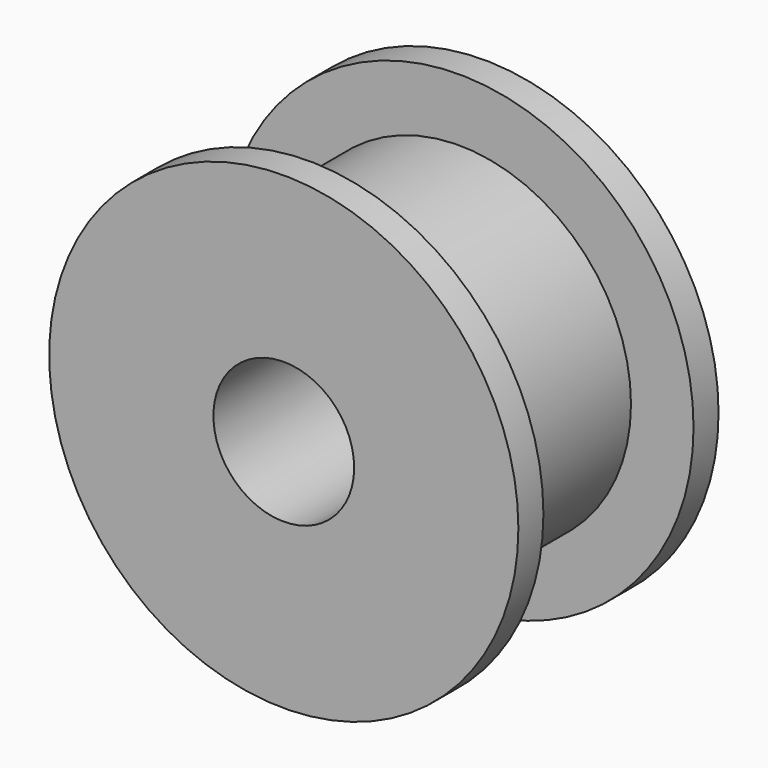
from build123d import *

# Parameters (mm, degrees)
F0_R     = 7.5
F0_R_2   = 2.25
F1_DEPTH = 1
F2_R     = 5.5
F2_R_2   = 2.25
F3_DEPTH = 6
F4_R     = 7.5
F4_R_2   = 2.25
F5_DEPTH = 1


with BuildPart() as f1:
    # F0 (on Front) → F1 (new body)
    with BuildSketch(Plane.XZ):
        Circle(F0_R)
        Circle(F0_R_2, mode=Mode.SUBTRACT)
    extrude(amount=-F1_DEPTH)

    # F2 (on face) → F3 (join)
    with BuildSketch(Plane.XZ):
        Circle(F2_R)
        Circle(F2_R_2, mode=Mode.SUBTRACT)
    extrude(amount=F3_DEPTH)

    # F4 (on face) → F5 (join)
    with BuildSketch(Plane.XZ.offset(6)):
        Circle(F4_R)
        Circle(F4_R_2, mode=Mode.SUBTRACT)
    extrude(amount=F5_DEPTH)


solid = f1.part
